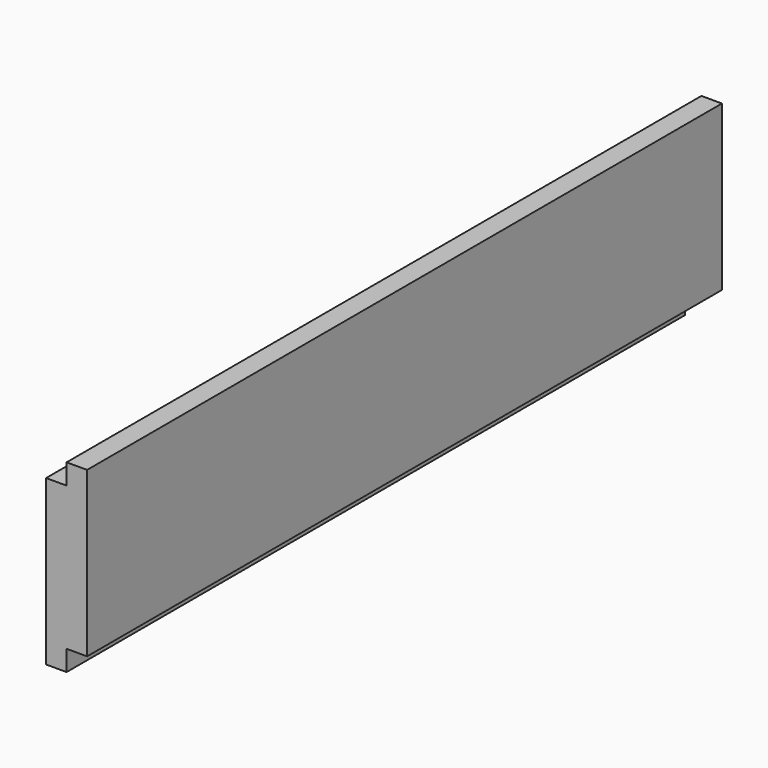
from build123d import *

# Parameters (mm, degrees)
F0_W     = 174
F0_H     = 40.5
F1_DEPTH = 9
F2_W     = 4.5
F2_H     = 174
F3_DEPTH = 4.5
F4_W     = 4.5
F4_H     = 4.5
F5_DEPTH = 36
F6_W     = 4.5
F6_H     = 174
F7_DEPTH = 4.5


with BuildPart() as f1:
    # F0 (on Right) → F1 (new body)
    with BuildSketch(Plane.YZ):
        Rectangle(F0_W, F0_H)
    extrude(amount=F1_DEPTH)

    # F2 (on face) → F3 (cut)
    with BuildSketch(Plane.XY.offset(20.25)):
        with Locations((2.25, 0)):
            Rectangle(F2_W, F2_H)
    extrude(amount=-F3_DEPTH, mode=Mode.SUBTRACT)

    # F4 (on face) → F5 (cut, through all)
    with BuildSketch(Plane.XY.offset(15.75)):
        with Locations((2.25, 84.75)):
            Rectangle(F4_W, F4_H)
    extrude(amount=-F5_DEPTH, mode=Mode.SUBTRACT)

    # F6 (on face) → F7 (cut)
    with BuildSketch(Plane(origin=(0, 0, -20.25), x_dir=(1, 0, 0), z_dir=(0, 0, -1))):
        with Locations((6.75, 0)):
            Rectangle(F6_W, F6_H)
    extrude(amount=-F7_DEPTH, mode=Mode.SUBTRACT)


solid = f1.part
